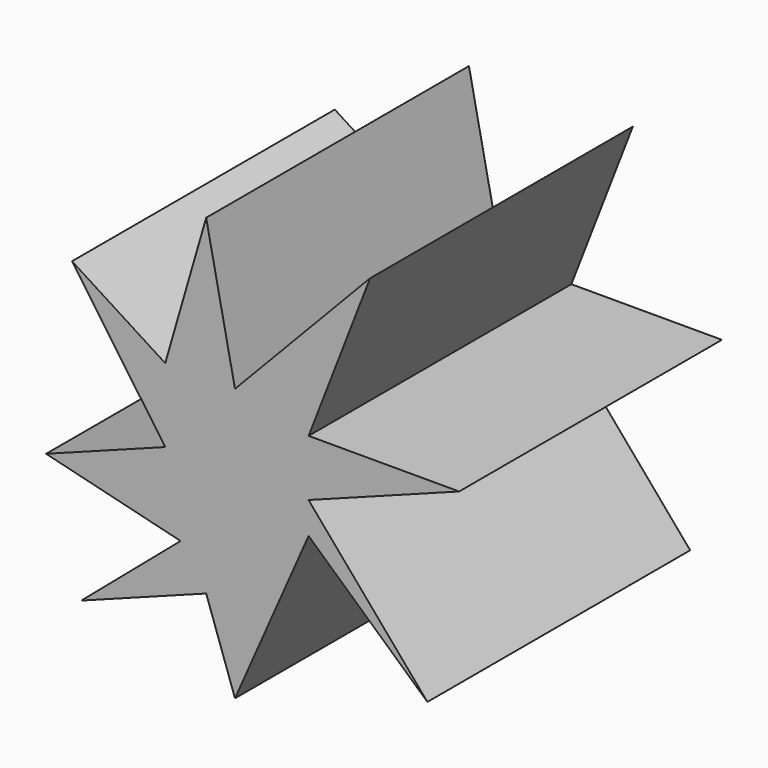
from build123d import *

# Parameters (mm, degrees)
F1_DEPTH = 76.2
F3_DEPTH = 38.1


with BuildPart() as f1:
    # F0 (on Front) → F1 (new body)
    with BuildSketch(Plane.XZ):
        Polygon((-6.67761, -26.820849), (0, -46.061039), (17.081864, -7.333096), (44.642854, -32.280538), (17.081864, 0), (52.008286, 13.100051), (17.081864, 13.100051), (31.337548, 49.927235), (0, 17.139161), (-6.67761, 49.927235), (-16.181398, 17.139161), (-37.802517, 30.919654), (-16.181398, 0), (-43.82217, -10.367381), (-12.617477, -18.024858), (-35.645313, -37.68593), align=None)
    extrude(amount=F1_DEPTH)

    # F2 (on face) → F3 (cut)
    with BuildSketch(Plane(origin=(0, 0, 0), x_dir=(-1, 0, 0), z_dir=(0, 1, 0))):
        Polygon((-11.940956, 1.327117), (-15.652789, -3.020332), (-0.338611, -37.740585), (4.822557, -22.869717), (20.473261, -28.739915), (6.116101, -16.481832), (33.517448, -9.757677), (11.431544, -1.473792), (26.533152, 20.122523), (14.387094, 12.381079), (7.194937, 37.194024), (1.823565, 10.819776), (-22.974258, 36.76542), (-12.633599, 10.052051), (-35.202754, 10.052051), align=None)
    extrude(amount=-F3_DEPTH, mode=Mode.SUBTRACT)


solid = f1.part
